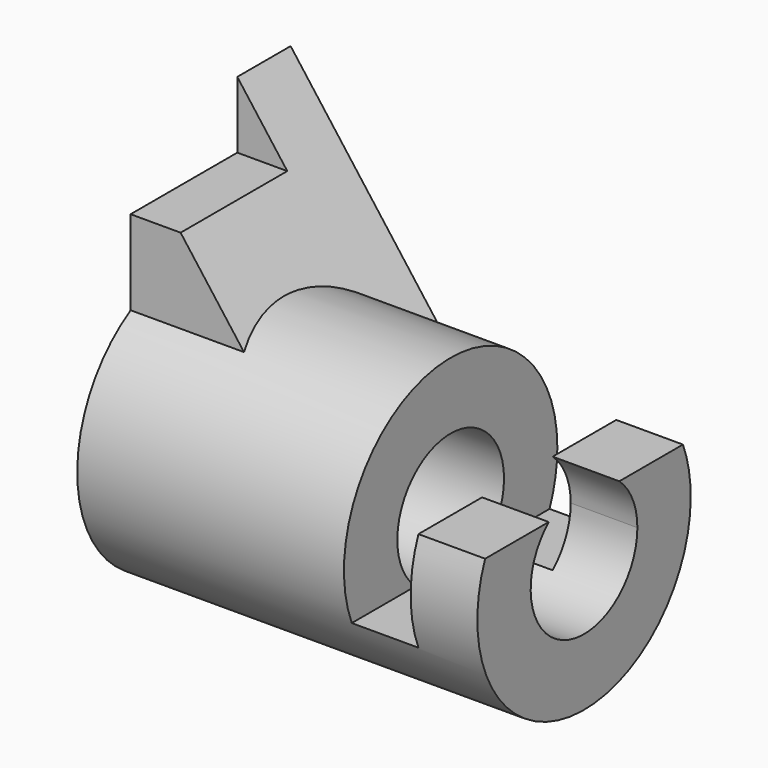
from build123d import *

# Parameters (mm, degrees)
F0_R          = 25.4
F0_R_2        = 12.7
F1_DEPTH      = 76.2
F2_W          = 50.8
F2_H          = 15.875
F3_DEPTH      = 25.4
F4_W          = 12.7
F4_H          = 34.925
F5_DEPTH      = 25.401
F5_DEPTH_BACK = 25.401
F7_DEPTH      = 12.7
F7_DEPTH_BACK = 25.4
F8_R          = 12.7
F9_DEPTH      = 76.201
F10_W         = 25.4
F10_H         = 12.7
F11_DEPTH     = 76.201


with BuildPart() as f1:
    # F0 (on Right) → F1 (new body)
    with BuildSketch(Plane.YZ):
        Circle(F0_R)
        Circle(F0_R_2, mode=Mode.SUBTRACT)
    extrude(amount=F1_DEPTH)

    # F2 (on face) → F3 (cut)
    with BuildSketch(Plane.YZ.offset(76.2)):
        with Locations((0, 17.4625)):
            Rectangle(F2_W, F2_H)
    extrude(amount=-F3_DEPTH, mode=Mode.SUBTRACT)

    # F4 (on Front) → F5 (cut, two sides)
    with BuildSketch(Plane.XZ) as f5_sk:
        with Locations((57.15, 7.9375)):
            Rectangle(F4_W, F4_H)
    extrude(amount=-F5_DEPTH, mode=Mode.SUBTRACT)
    extrude(f5_sk.sketch, amount=F5_DEPTH_BACK, mode=Mode.SUBTRACT)

    # F6 (on Front) → F7 (join, two sides)
    with BuildSketch(Plane.XZ) as f7_sk:
        Polygon((38.1, 0), (0, 50.8), (0, 0), align=None)
    extrude(amount=F7_DEPTH)
    extrude(f7_sk.sketch, amount=-F7_DEPTH_BACK)

    # F8 (on Right) → F9 (cut, through all)
    with BuildSketch(Plane.YZ):
        Circle(F8_R)
    extrude(amount=F9_DEPTH, mode=Mode.SUBTRACT)

    # F10 (on Right) → F11 (cut, through all)
    with BuildSketch(Plane.YZ):
        with Locations((0, 44.45)):
            Rectangle(F10_W, F10_H)
    extrude(amount=F11_DEPTH, mode=Mode.SUBTRACT)


solid = f1.part
